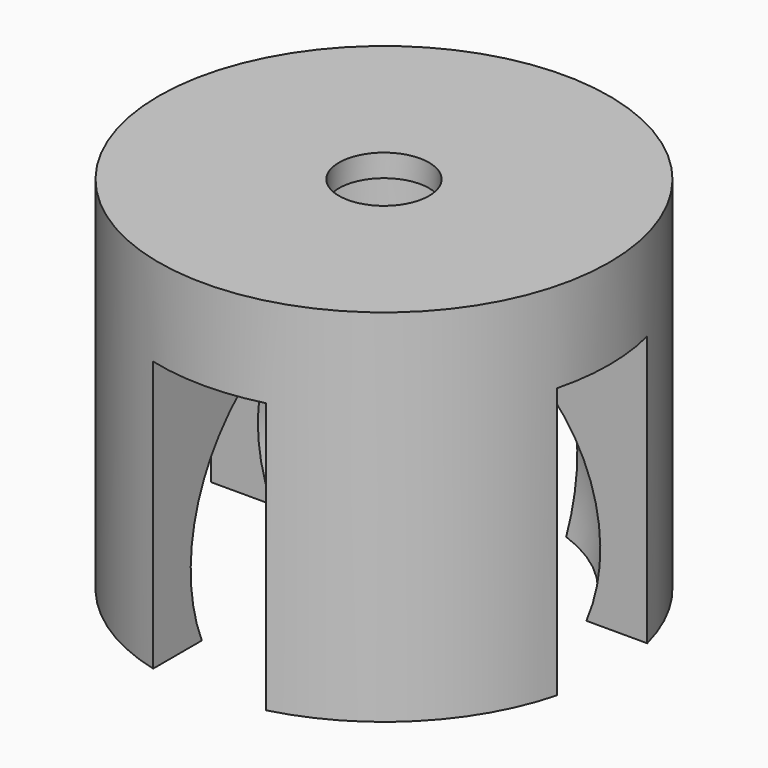
from build123d import *

# Parameters (mm, degrees)
CYLINDER002_R       = 3.8
CYLINDER002_DEPTH   = 15
CYLINDER001_R       = 2
CYLINDER001_DEPTH   = 16
BOX001_W            = 5
BOX001_H            = 20
BOX001_DEPTH        = 12
BOX_W               = 5
BOX_H               = 20
BOX_DEPTH           = 12
BOX_PLACEMENT_ANGLE = 90
CYLINDER_R          = 10
CYLINDER_DEPTH      = 16


with BuildPart() as cilindro002:
    # Cylinder002 → Cylinder002 (new body)
    with BuildSketch(Plane.XY):
        Circle(CYLINDER002_R)
    extrude(amount=CYLINDER002_DEPTH)


with BuildPart() as fusion001:
    # Cylinder001 → Cylinder001 (new body)
    with BuildSketch(Plane.XY):
        Circle(CYLINDER001_R)
    extrude(amount=CYLINDER001_DEPTH)

    # Fusion001: union Cilindro002
    add(cilindro002.part)


with BuildPart() as cubo001:
    # Box001 → Box001 (new body)
    with BuildSketch(Plane(origin=(-2.5, -10, 0), x_dir=(1, 0, 0), z_dir=(0, 0, 1))):
        with Locations((2.5, 10)):
            Rectangle(BOX001_W, BOX001_H)
    extrude(amount=BOX001_DEPTH)


with BuildPart() as fusion:
    # Box → Box (new body)
    with BuildSketch(Plane.XY):
        with Locations((2.5, 10)):
            Rectangle(BOX_W, BOX_H)
    extrude(amount=BOX_DEPTH)


with BuildPart() as fusion_1:
    # Box placement: moved
    add(fusion.part.moved(Location((10, -2.5, 0))).rotate(Axis((10, -2.5, 0), (0, 0, 1)), BOX_PLACEMENT_ANGLE))

    # Fusion: union Cubo001
    add(cubo001.part)


with BuildPart() as esfera:
    # Sphere → Sphere (revolve)
    with BuildSketch(Plane(origin=(0, 0, 3), x_dir=(1, 0, 0), z_dir=(0, -1, 0))):
        with BuildLine():
            ThreePointArc((0, -8), (8, 0), (0, 8))
            Line((0, 8), (0, -8))
        make_face()
    revolve(axis=Axis((0, 0, 3), (0, 0, 1)))


with BuildPart() as cut002:
    # Cylinder → Cylinder (new body)
    with BuildSketch(Plane.XY):
        Circle(CYLINDER_R)
    extrude(amount=CYLINDER_DEPTH)

    # Cut: cut Esfera
    add(esfera.part, mode=Mode.SUBTRACT)

    # Cut001: cut Fusion
    add(fusion_1.part, mode=Mode.SUBTRACT)

    # Cut002: cut Fusion001
    add(fusion001.part, mode=Mode.SUBTRACT)


solid = cut002.part
